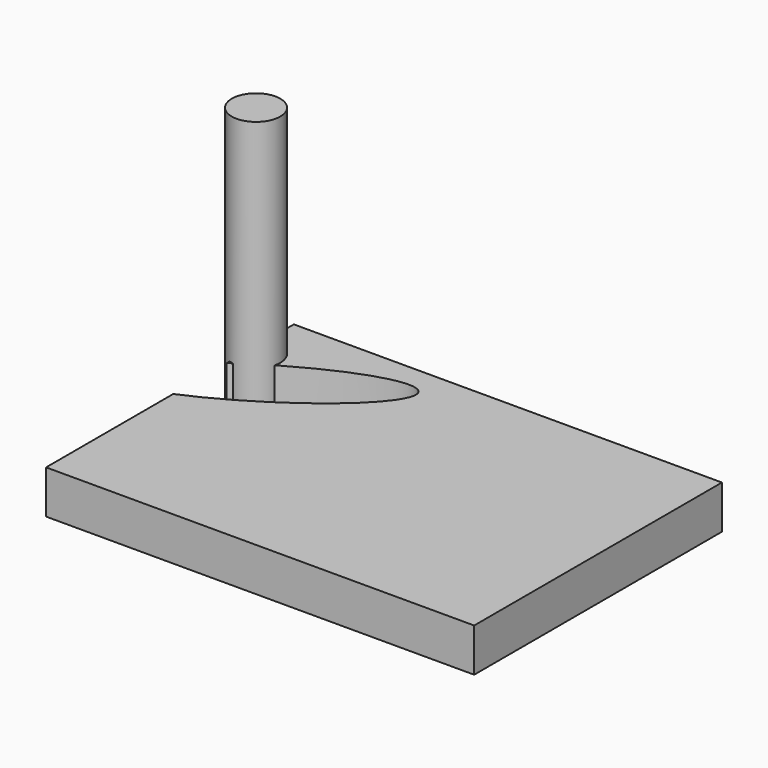
from build123d import *

# Parameters (mm, degrees)
F5_W      = 125.391960144
F5_H      = 90.7131507993
F0_DEPTH  = 25.4
F0_FACE_W = 125.391960144
F0_FACE_H = 90.7131507993
F2_DEPTH  = 12.7
F3_R      = 7.1003794984
F4_DEPTH  = 76.2


with BuildPart() as f0:
    # F5 (on Top) → F0 (new body)
    with BuildSketch(Plane.XY):
        with Locations((-27.6510342956, 45.3565753996)):
            Rectangle(F5_W, F5_H)
    extrude(amount=F0_DEPTH)

    # F1 (on Top) + F0_face (on face) → F2 (cut, symmetric)
    with BuildSketch(Plane.XY):
        with BuildLine():
            add(Edge.make_bspline(
                [(-47.1335723996, 82.3248922825), (-55.4265383348, 95.797767977), (-98.0573000245, 60.2685092588), (-140.6880617142, 24.7392505407), (-89.7643340893, 46.7956335644), (-38.8406064644, 68.852016588), (-47.1335723996, 82.3248922825)],
                knots=[0, 0, 0, 2.0943951024, 2.0943951024, 4.1887902048, 4.1887902048, 6.2831853072, 6.2831853072, 6.2831853072], degree=2, weights=[1, 0.5, 1, 0.5, 1, 0.5, 1]))
        make_face()
    with BuildSketch(Plane(origin=(-27.6510342956, 45.3565753996, 25.4), x_dir=(1, 0, 0), z_dir=(0, 0, 1))):
        Rectangle(F0_FACE_W, F0_FACE_H)
    extrude(amount=F2_DEPTH, both=True, mode=Mode.SUBTRACT)


with BuildPart() as f4:
    # F3 (on Top) → F4 (new body)
    with BuildSketch(Plane.XY):
        with Locations((-87.9730582237, 73.9091187716)):
            Circle(F3_R)
    extrude(amount=F4_DEPTH)


solid = Compound([f0.part, f4.part])
